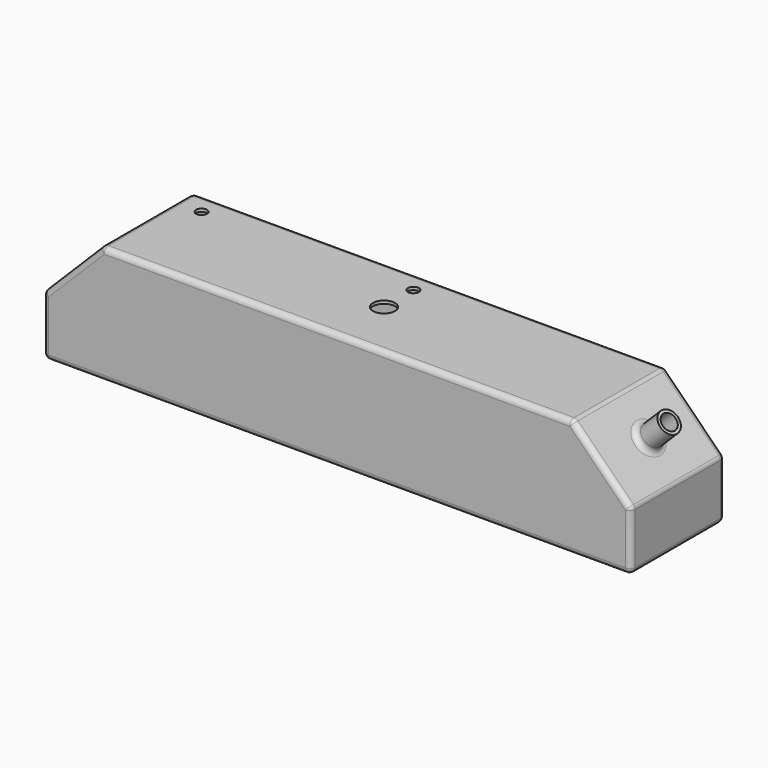
from build123d import *

# Parameters (mm, degrees)
F0_W     = 1016
F0_H     = 203.2
F1_DEPTH = 203.2
F3_DEPTH = 203.201
F4_R     = 19.05
F5_DEPTH = 50.8
F6_R     = 9.525
F7_T     = -5.08
F8_R     = 9.525
F8_R_2   = 19.05
F9_DEPTH = 5.08


with BuildPart() as f1:
    # F0 (on Top) → F1 (new body)
    with BuildSketch(Plane.XY):
        Rectangle(F0_W, F0_H)
    extrude(amount=F1_DEPTH)

    # F2 (on face) → F3 (cut, through all)
    with BuildSketch(Plane.XZ.offset(101.6)):
        Polygon((-508, 203.2), (-508, 101.6), (-406.4, 203.2), align=None)
        Polygon((508, 203.2), (406.4, 203.2), (508, 101.6), align=None)
    extrude(amount=-F3_DEPTH, mode=Mode.SUBTRACT)

    # F4 (on face) → F5 (join)
    with BuildSketch(Plane(origin=(304.8, 0, 304.8), x_dir=(0.7071067812, 0, -0.7071067812), z_dir=(0.7071067812, 0, 0.7071067812))):
        with Locations((215.5261469057, 0)):
            Circle(F4_R)
    extrude(amount=F5_DEPTH)

    # F6
    f6_edges = [f1.edges().sort_by_distance(p)[0] for p in [
        (0, -101.6, 0),
        (508, -101.6, 50.8),
        (457.2, -101.6, 152.4),
        (0, -101.6, 203.2),
        (-457.2, -101.6, 152.4),
        (-508, -101.6, 50.8),
        (406.4, 0, 203.2),
        (508, 0, 101.6),
        (457.2, 101.6, 152.4),
        (443.729616, 0, 165.870384),
        (508, 0, 0),
        (508, 101.6, 50.8),
        (-406.4, 0, 203.2),
        (0, 101.6, 203.2),
        (-508, 0, 0),
        (-508, 0, 101.6),
        (-508, 101.6, 50.8),
        (-457.2, 101.6, 152.4),
        (0, 101.6, 0),
    ]]
    fillet(f6_edges, radius=F6_R)

    # F7
    f7_openings = [f1.faces().sort_by_distance(p)[0] for p in [
        (493.121024, 0, 188.321024),
    ]]
    offset(amount=F7_T, openings=f7_openings)

    # F8 (on face) → F9 (cut)
    with BuildSketch(Plane.XY.offset(203.2)):
        with Locations((-366.3365542889, 63.5)):
            Circle(F8_R)
        with Locations((0, 63.5)):
            Circle(F8_R)
        Circle(F8_R_2)
    extrude(amount=-F9_DEPTH, mode=Mode.SUBTRACT)


solid = f1.part
